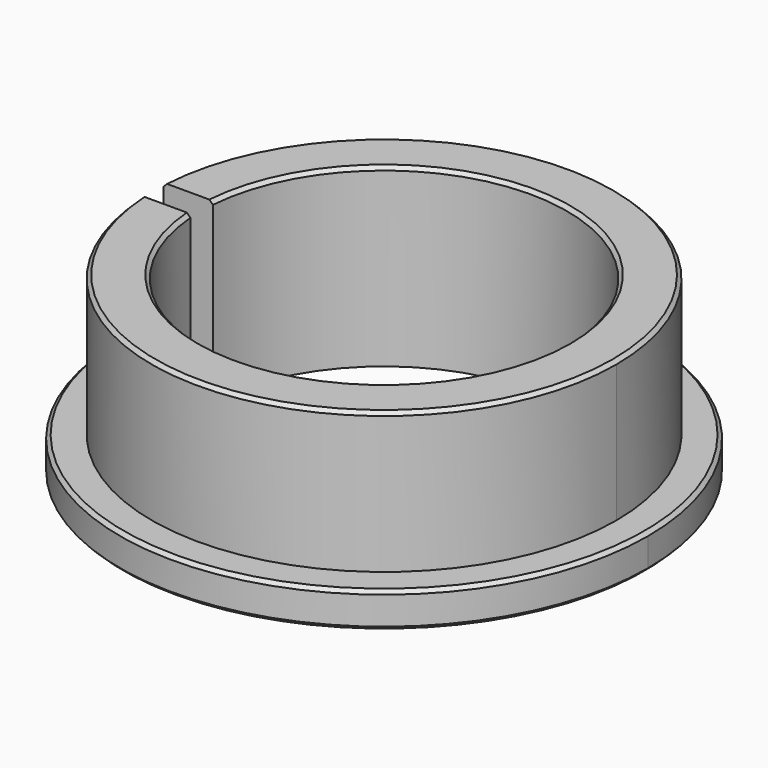
from build123d import *

# Parameters (mm, degrees)
F0_R     = 33
F0_R_2   = 26
F1_DEPTH = 20
F2_R     = 37.5
F2_R_2   = 26
F3_DEPTH = 5
F4_W     = 22
F4_H     = 4
F5_DEPTH = 25
F6_SIZE  = 0.5


with BuildPart() as f1:
    # F0 (on Top) → F1 (new body)
    with BuildSketch(Plane.XY):
        Circle(F0_R)
        Circle(F0_R_2, mode=Mode.SUBTRACT)
    extrude(amount=F1_DEPTH)

    # F2 (on Top) → F3 (join)
    with BuildSketch(Plane.XY):
        Circle(F2_R)
        Circle(F2_R_2, mode=Mode.SUBTRACT)
    extrude(amount=-F3_DEPTH)

    # F4 (on Top) → F5 (cut, symmetric)
    with BuildSketch(Plane.XY):
        with Locations((-31.949636, 0)):
            Rectangle(F4_W, F4_H)
    extrude(amount=F5_DEPTH, both=True, mode=Mode.SUBTRACT)

    # F6
    f6_edges = [f1.edges().sort_by_distance(p)[0] for p in [
        (1.00046, 32.984831, 20),
        (1.00046, -32.984831, 20),
        (1.000742, -25.980734, 20),
        (1.000742, 25.980734, 20),
        (1.000356, -37.486655, 0),
        (1.000356, 37.486655, 0),
        (1.000356, -37.486655, -5),
        (1.000356, 37.486655, -5),
    ]]
    chamfer(f6_edges, length=F6_SIZE)


solid = f1.part
